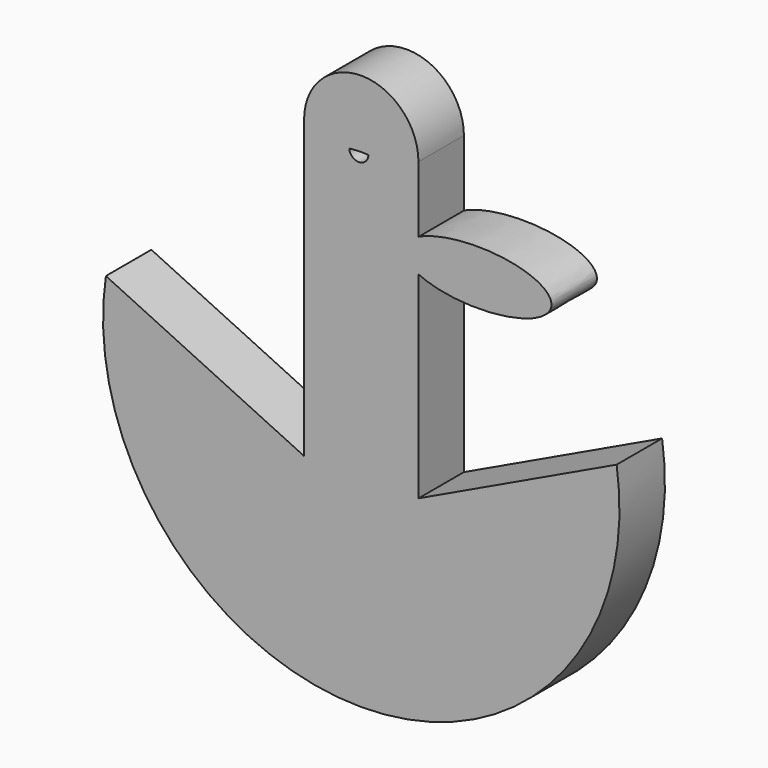
from build123d import *

# Parameters (mm, degrees)
F1_DEPTH = 25


with BuildPart() as f1:
    # F0 (on Front) → F1 (new body)
    with BuildSketch(Plane.XZ):
        with BuildLine():
            ThreePointArc((25.1559019089, 88.984169066), (0, 114.1400709748), (-25.1559019089, 88.984169066))
            Line((-25.1559019089, 88.984169066), (-25.1559019089, 76.8334195018))
            ThreePointArc((-25.1559019089, 76.8334195018), (-15.6610247512, 81.7139156798), (-5.2831442587, 84.2182183103))
            ThreePointArc((-5.2831442587, 84.2182183103), (-1.078544027, 84.5167627146), (3.1355363629, 84.420231177))
            ThreePointArc((3.1355363629, 84.420231177), (14.6455214219, 82.0774780655), (25.1559019089, 76.8334195018))
            Line((25.1559019089, 76.8334195018), (25.1559019089, 88.984169066))
        make_face()
        with BuildLine():
            ThreePointArc((25.1559019089, 76.8334195018), (0, 69.6634476444), (-25.1559019089, 76.8334195018))
            Line((-25.1559019089, 76.8334195018), (-25.1559019089, -41.4061183914))
            Line((-25.1559019089, -41.4061183914), (-25.1559019089, -94.8104477549))
            ThreePointArc((-25.1559019089, -94.8104477549), (0, -98.6809780207), (25.1559019089, -94.8104477549))
            Line((25.1559019089, -94.8104477549), (25.1559019089, -41.4061183914))
            Line((25.1559019089, -41.4061183914), (25.1559019089, 45.3929714859))
            Line((25.1559019089, 45.3929714859), (25.1559019089, 52.6365377009))
            Line((25.1559019089, 52.6365377009), (25.1559019089, 59.8801039159))
            Line((25.1559019089, 59.8801039159), (25.1559019089, 76.8334195018))
        make_face()
        with BuildLine():
            ThreePointArc((-5.2831442587, 84.2182183103), (-15.6610247512, 81.7139156798), (-25.1559019089, 76.8334195018))
            ThreePointArc((-25.1559019089, 76.8334195018), (0, 69.6634476444), (25.1559019089, 76.8334195018))
            ThreePointArc((25.1559019089, 76.8334195018), (14.6455214219, 82.0774780655), (3.1355363629, 84.420231177))
            ThreePointArc((3.1355363629, 84.420231177), (-0.9774264324, 80.3027898739), (-5.2831442587, 84.2182183103))
        make_face()
        with BuildLine():
            Line((-25.1559019089, -94.8104477549), (-25.1559019089, -41.4061183914))
            Line((-25.1559019089, -41.4061183914), (-83.6723277039, -13.6191536465))
            ThreePointArc((-83.6723277039, -13.6191536465), (-67.8888978399, -63.9263855466), (-25.1559019089, -94.8104477549))
        make_face()
        with BuildLine():
            ThreePointArc((25.1559019089, -94.8104477549), (0, -98.6809780207), (-25.1559019089, -94.8104477549))
            ThreePointArc((-25.1559019089, -94.8104477549), (-67.8888978399, -63.9263855466), (-83.6723277039, -13.6191536465))
            Line((-83.6723277039, -13.6191536465), (-112.3528331518, 0))
            ThreePointArc((-112.3528331518, 0), (0, -130.4308243006), (112.3528331518, 0))
            Line((112.3528331518, 0), (83.6723277039, -13.6191536465))
            ThreePointArc((83.6723277039, -13.6191536465), (67.8888978399, -63.9263855466), (25.1559019089, -94.8104477549))
        make_face()
        with BuildLine():
            add(Edge.make_bspline(
                [(83.6723277039, 52.6365377009), (83.6723277039, 88.1608839307), (25.1559019089, 59.8801039159)],
                knots=[0, 0, 0, 2.4916123538, 2.4916123538, 2.4916123538], degree=2, weights=[1, 0.3192994514, 1]))
            Line((25.1559019089, 59.8801039159), (25.1559019089, 52.6365377009))
            Line((25.1559019089, 52.6365377009), (83.6723277039, 52.6365377009))
        make_face()
        with BuildLine():
            Line((25.1559019089, -41.4061183914), (25.1559019089, -94.8104477549))
            ThreePointArc((25.1559019089, -94.8104477549), (67.8888978399, -63.9263855466), (83.6723277039, -13.6191536465))
            Line((83.6723277039, -13.6191536465), (25.1559019089, -41.4061183914))
        make_face()
        with BuildLine():
            Line((83.6723277039, 52.6365377009), (25.1559019089, 52.6365377009))
            Line((25.1559019089, 52.6365377009), (25.1559019089, 45.3929714859))
            add(Edge.make_bspline(
                [(25.1559019089, 45.3929714859), (83.6723277039, 17.1121914711), (83.6723277039, 52.6365377009)],
                knots=[3.7915729533, 3.7915729533, 3.7915729533, 6.2831853072, 6.2831853072, 6.2831853072], degree=2, weights=[1, 0.3192994514, 1]))
        make_face()
    extrude(amount=F1_DEPTH)


solid = f1.part
